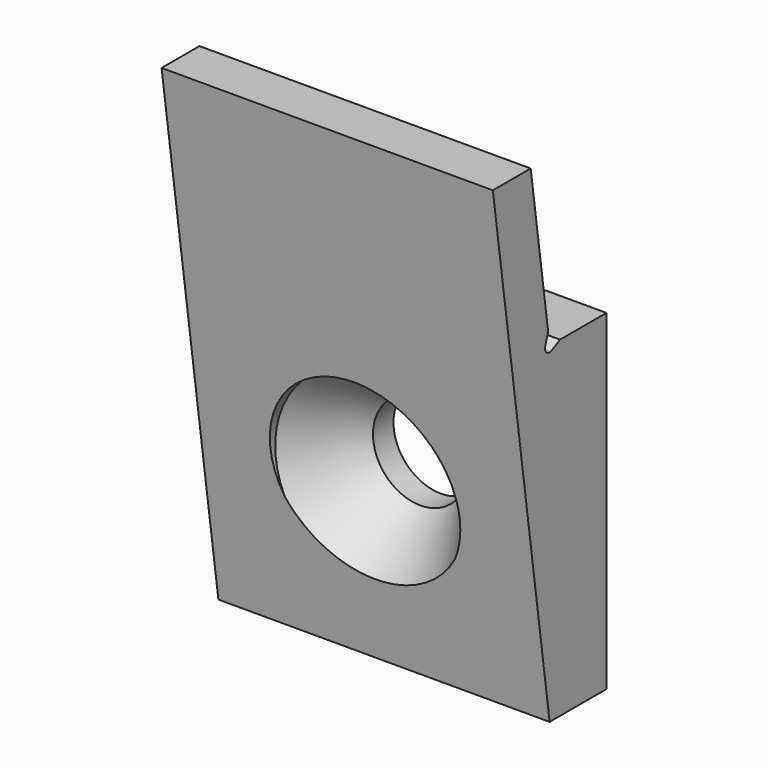
from build123d import *

# Parameters (mm, degrees)
SKETCH003_R     = 1.75
SKETCH004_R     = 4
SKETCH005_R     = 4
PAD001_DEPTH    = 2
PAD_DEPTH       = 7
SKETCH001_R     = 0.25
POCKET_DEPTH    = 14.001
SKETCH002_R     = 2
POCKET001_DEPTH = 6.001
CHAMFER_SIZE    = 0.3


with BuildPart() as obj1:
    # Sketch003 → Loft section 0
    with BuildSketch(Plane.XZ.offset(-0.75)):
        Circle(SKETCH003_R)
    # Sketch004 → Loft section 1
    with BuildSketch(Plane.XZ.offset(2.25)):
        Circle(SKETCH004_R)
    loft()

    # Sketch005 → Pad001 (new body)
    with BuildSketch(Plane.XZ.offset(2.25)):
        Circle(SKETCH005_R)
    extrude(amount=PAD001_DEPTH)


with BuildPart() as halterung_unten:
    # Sketch → Pad (new body, symmetric)
    with BuildSketch(Plane.YZ):
        Polygon((-4.5, 14), (-2.5, 14), (-1.5, 7), (1.5, 7), (1.5, -7), (-1.5, -7), align=None)
    extrude(amount=PAD_DEPTH, both=True)

    # Sketch001 → Pocket (cut, through all)
    with BuildSketch(Plane.YZ.offset(7)):
        with Locations((-1.5, 7)):
            Circle(SKETCH001_R)
    extrude(amount=-POCKET_DEPTH, mode=Mode.SUBTRACT)

    # Sketch002 → Pocket001 (cut, through all)
    with BuildSketch(Plane.ZX.offset(1.5)):
        Circle(SKETCH002_R)
    extrude(amount=-POCKET001_DEPTH, mode=Mode.SUBTRACT)

    # Cut: cut obj1
    add(obj1.part, mode=Mode.SUBTRACT)

    # Chamfer
    chamfer_edges = [halterung_unten.edges().sort_by_distance(p)[0] for p in [
        (0, -1.535355, 7.247487),
        (0, -1.25, 7),
    ]]
    chamfer(chamfer_edges, length=CHAMFER_SIZE)


solid = halterung_unten.part
